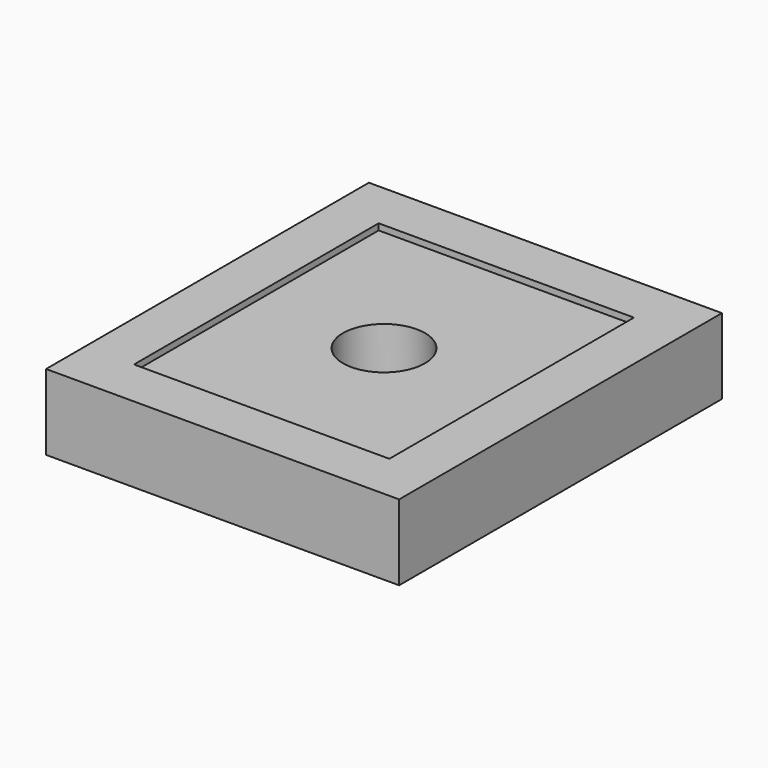
from build123d import *

# Parameters (mm, degrees)
F0_W     = 355.6
F0_H     = 406.4
F1_DEPTH = 76.2
F2_R     = 41.275
F3_DEPTH = 76.201
F4_W     = 257.175
F4_H     = 307.975
F5_DEPTH = 6.35


with BuildPart() as f1:
    # F0 (on Top) → F1 (new body)
    with BuildSketch(Plane.XY):
        Rectangle(F0_W, F0_H)
    extrude(amount=F1_DEPTH)

    # F2 (on face) → F3 (cut, through all)
    with BuildSketch(Plane.XY.offset(76.2)):
        Circle(F2_R)
    extrude(amount=-F3_DEPTH, mode=Mode.SUBTRACT)

    # F4 (on face) → F5 (cut)
    with BuildSketch(Plane.XY.offset(76.2)):
        Rectangle(F4_W, F4_H)
    extrude(amount=-F5_DEPTH, mode=Mode.SUBTRACT)


solid = f1.part
